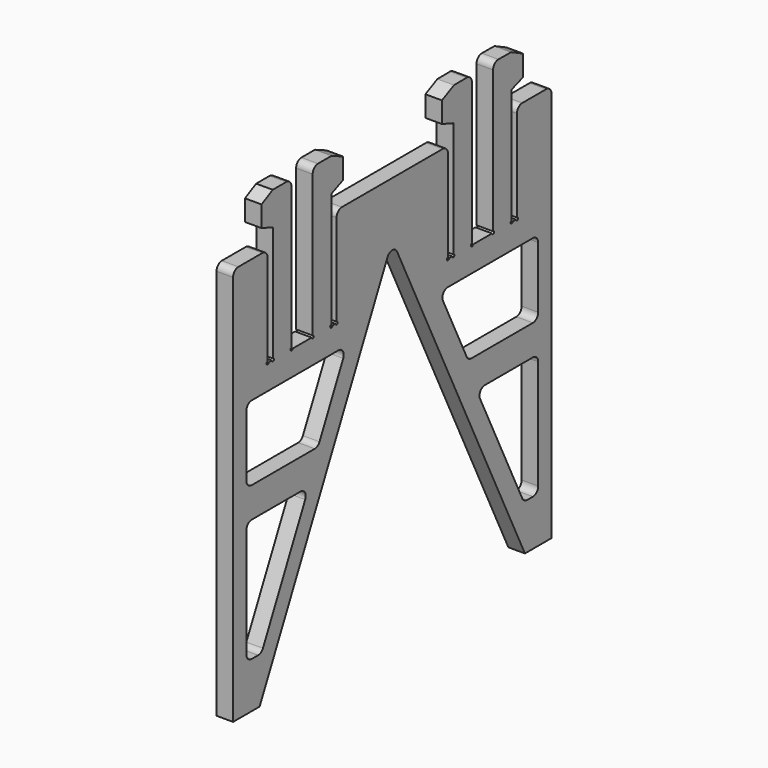
from build123d import *

# Parameters (mm, degrees)
F1_DEPTH = 12.7
F2_R     = 5.08
F3_R     = 5.08
F4_R     = 5.08
F5_R     = 5.08


with BuildPart() as f1:
    # F0 (on Right) → F1 (new body)
    with BuildSketch(Plane.YZ):
        with BuildLine():
            Line((-152.4, -152.4), (-127, -152.4))
            Line((-127, -152.4), (0, 110.3586206897))
            Line((0, 110.3586206897), (-20.32, 152.4))
            Line((-20.32, 152.4), (-53.34, 152.4))
            Line((-53.34, 152.4), (-53.34, 77.216))
            ThreePointArc((-53.34, 77.216), (-52.6215795103, 75.4815795103), (-54.356, 76.2))
            Line((-54.356, 76.2), (-57.4041717125, 76.2))
            ThreePointArc((-57.4041717125, 76.2), (-59.1317859709, 75.4563270968), (-58.42, 77.1973213944))
            Line((-58.42, 77.1973213944), (-58.42, 152.4))
            Line((-58.42, 152.4), (-76.2, 152.4))
            Line((-76.2, 152.4), (-76.2, 77.216))
            ThreePointArc((-76.2, 77.216), (-75.4815795103, 75.4815795103), (-77.216, 76.2))
            Line((-77.216, 76.2), (-95.4923106742, 76.2))
            ThreePointArc((-95.4923106742, 76.2), (-97.2466860912, 75.4733139088), (-96.52, 77.2276893258))
            Line((-96.52, 77.2276893258), (-96.52, 152.4))
            Line((-96.52, 152.4), (-114.3, 152.4))
            Line((-114.3, 152.4), (-114.3, 77.2051736712))
            ThreePointArc((-114.3, 77.2051736712), (-113.5892348808, 75.4892348808), (-115.3051736712, 76.2))
            Line((-115.3051736712, 76.2), (-118.3691862392, 76.2))
            ThreePointArc((-118.3691862392, 76.2), (-120.0947532647, 75.4852467353), (-119.38, 77.2108137608))
            Line((-119.38, 77.2108137608), (-119.38, 152.4))
            Line((-119.38, 152.4), (-152.4, 152.4))
            Line((-152.4, 152.4), (-152.4, -152.4))
        make_face()
        Polygon((-125.2390742302, -117.1909989266), (-139.7, -117.1909989266), (-139.7, -23.267487064), (-79.8427101633, -23.267487064), align=None, mode=Mode.SUBTRACT)
        Polygon((-71.0798129439, 0), (-139.7, 0), (-139.7, 57.1620902733), (-43.4514693118, 57.1620902733), align=None, mode=Mode.SUBTRACT)
        Polygon((-20.32, 152.4), (0, 110.3586206897), (20.32, 152.4), align=None)
        Polygon((-114.3, 165.608), (-114.3, 152.4), (-96.52, 152.4), (-96.52, 191.008), (-114.4882887602, 191.008), (-125.171661377, 185.4585111141), (-125.171661377, 169.4956421852), align=None)
        Polygon((-76.2, 152.4), (-58.42, 152.4), (-58.42, 165.3668519163), (-47.2367718493, 170.141807182), (-47.2367718493, 186.1046761109), (-58.2317112398, 191.008), (-76.2, 191.008), align=None)
        with BuildLine():
            Line((152.4, -152.4), (152.4, 152.4))
            Line((152.4, 152.4), (119.38, 152.4))
            Line((119.38, 152.4), (119.38, 77.2108137608))
            ThreePointArc((119.38, 77.2108137608), (120.0947532647, 75.4852467353), (118.3691862392, 76.2))
            Line((118.3691862392, 76.2), (115.3051736712, 76.2))
            ThreePointArc((115.3051736712, 76.2), (113.5892348808, 75.4892348808), (114.3, 77.2051736712))
            Line((114.3, 77.2051736712), (114.3, 152.4))
            Line((114.3, 152.4), (96.52, 152.4))
            Line((96.52, 152.4), (96.52, 77.2276893258))
            ThreePointArc((96.52, 77.2276893258), (97.2466860912, 75.4733139088), (95.4923106742, 76.2))
            Line((95.4923106742, 76.2), (77.216, 76.2))
            ThreePointArc((77.216, 76.2), (75.4815795103, 75.4815795103), (76.2, 77.216))
            Line((76.2, 77.216), (76.2, 152.4))
            Line((76.2, 152.4), (58.42, 152.4))
            Line((58.42, 152.4), (58.42, 77.1973213944))
            ThreePointArc((58.42, 77.1973213944), (59.1317859709, 75.4563270968), (57.4041717125, 76.2))
            Line((57.4041717125, 76.2), (54.356, 76.2))
            ThreePointArc((54.356, 76.2), (52.6215795103, 75.4815795103), (53.34, 77.216))
            Line((53.34, 77.216), (53.34, 152.4))
            Line((53.34, 152.4), (20.32, 152.4))
            Line((20.32, 152.4), (0, 110.3586206897))
            Line((0, 110.3586206897), (127, -152.4))
            Line((127, -152.4), (152.4, -152.4))
        make_face()
        Polygon((139.7, -117.1909989266), (125.8725191181, -117.1909989266), (80.4761550512, -23.267487064), (139.7, -23.267487064), align=None, mode=Mode.SUBTRACT)
        Polygon((139.7, 0), (72.6210160618, 0), (44.9926724297, 57.1620902733), (139.7, 57.1620902733), align=None, mode=Mode.SUBTRACT)
        Polygon((58.42, 152.4), (76.2, 152.4), (76.2, 166.0996880174), (76.2, 191.1524534295), (59.0350851188, 191.008), (47.548338623, 185.4211749058), (47.548338623, 169.4616637616), (58.42, 165.608), align=None)
        Polygon((96.52, 152.4), (114.3, 152.4), (114.3, 165.608), (125.1717001088, 169.4615544924), (125.1717001088, 185.4210656367), (113.6850067591, 191.008), (96.52, 191.141088813), (96.52, 166.109945806), align=None)
    extrude(amount=F1_DEPTH)

    # F2
    f2_edges = [f1.edges().sort_by_distance(p)[0] for p in [
        (6.35, -139.7, 57.16209),
        (6.35, -43.451469, 57.16209),
        (6.35, -71.079813, 0),
        (6.35, -139.7, 0),
    ]]
    fillet(f2_edges, radius=F2_R)

    # F3
    f3_edges = [f1.edges().sort_by_distance(p)[0] for p in [
        (6.35, -139.7, -23.267487),
        (6.35, -79.84271, -23.267487),
        (6.35, -125.239074, -117.190999),
        (6.35, -139.7, -117.190999),
    ]]
    fillet(f3_edges, radius=F3_R)

    # F4
    f4_edges = [f1.edges().sort_by_distance(p)[0] for p in [
        (6.35, 139.7, 57.16209),
        (6.35, 44.992672, 57.16209),
        (6.35, 72.621016, 0),
        (6.35, 139.7, 0),
        (6.35, 139.7, -23.267487),
        (6.35, 80.476155, -23.267487),
        (6.35, 125.872519, -117.190999),
        (6.35, 139.7, -117.190999),
    ]]
    fillet(f4_edges, radius=F4_R)

    # F5
    f5_edges = [f1.edges().sort_by_distance(p)[0] for p in [
        (6.35, -119.38, 152.4),
        (6.35, -152.4, 152.4),
        (6.35, -53.34, 152.4),
        (6.35, 53.34, 152.4),
        (6.35, 119.38, 152.4),
        (6.35, 152.4, 152.4),
        (6.35, 0, 110.358621),
        (6.35, -96.52, 191.008),
        (6.35, -76.2, 191.008),
        (6.35, 96.52, 191.141089),
        (6.35, 76.2, 191.152453),
    ]]
    fillet(f5_edges, radius=F5_R)


solid = f1.part
